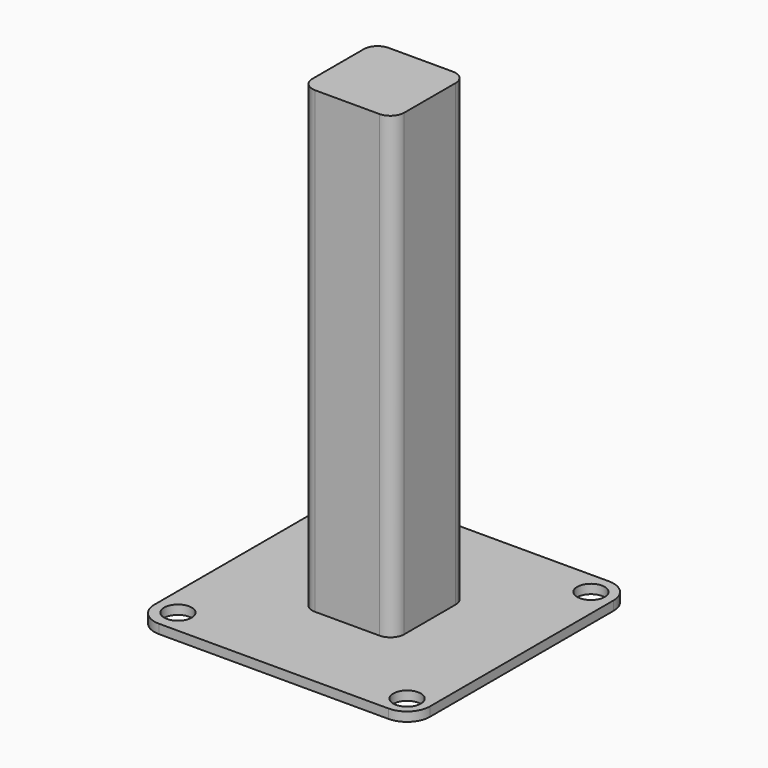
from build123d import *

# Parameters (mm, degrees)
SKETCH004_W  = 20
SKETCH004_H  = 20
PAD002_DEPTH = 100
FILLET010_R  = 3
FILLET011_R  = 3
SKETCH003_W  = 60
SKETCH003_H  = 60
PAD003_DEPTH = 2
FILLET013_R  = 5
FILLET009_R  = 5
FILLET008_R  = 5
FILLET012_R  = 5
SKETCH002_R  = 3
HOLE_DEPTH   = 25
HOLE_TIPS_R  = 3


with BuildPart() as part:
    # Sketch004 → Pad002 (new body)
    with BuildSketch(Plane.XY):
        with Locations((10, -10)):
            Rectangle(SKETCH004_W, SKETCH004_H)
    extrude(amount=PAD002_DEPTH)

    # Fillet010
    fillet010_edges = [part.edges().sort_by_distance(p)[0] for p in [
        (0, -20, 50),
        (20, 0, 50),
        (0, 0, 50),
    ]]
    fillet(fillet010_edges, radius=FILLET010_R)

    # Fillet011
    fillet011_edges = [part.edges().sort_by_distance(p)[0] for p in [
        (20, -20, 50),
    ]]
    fillet(fillet011_edges, radius=FILLET011_R)

    # Sketch003 (on Face1 of Fillet011) → Pad003 (join)
    with BuildSketch(Plane(origin=(0, 0, 0), x_dir=(1, 0, 0), z_dir=(0, 0, -1))):
        with Locations((10, 10)):
            Rectangle(SKETCH003_W, SKETCH003_H)
    extrude(amount=PAD003_DEPTH)

    # Fillet013
    fillet013_edges = [part.edges().sort_by_distance(p)[0] for p in [
        (-20, 20, -1),
    ]]
    fillet(fillet013_edges, radius=FILLET013_R)

    # Fillet009
    fillet009_edges = [part.edges().sort_by_distance(p)[0] for p in [
        (40, 20, -1),
    ]]
    fillet(fillet009_edges, radius=FILLET009_R)

    # Fillet008
    fillet008_edges = [part.edges().sort_by_distance(p)[0] for p in [
        (-20, -40, -1),
    ]]
    fillet(fillet008_edges, radius=FILLET008_R)

    # Fillet012
    fillet012_edges = [part.edges().sort_by_distance(p)[0] for p in [
        (40, -40, -1),
    ]]
    fillet(fillet012_edges, radius=FILLET012_R)

    # Sketch002 (on Face18 of Fillet012) → Hole (cut)
    with BuildSketch(Plane(origin=(0, 0, -2), x_dir=(1, 0, 0), z_dir=(0, 0, -1))):
        with Locations((-14.665156, -15.297529)):
            Circle(SKETCH002_R)
        with Locations((35.039818, -15.044578)):
            Circle(SKETCH002_R)
        with Locations((35.166283, 35.166294)):
            Circle(SKETCH002_R)
        with Locations((-15.044579, 34.786861)):
            Circle(SKETCH002_R)
    extrude(amount=-HOLE_DEPTH, mode=Mode.SUBTRACT)

    # Hole tips → Hole tip 1 section 0
    with BuildSketch(Plane(origin=(0, 0, 23), x_dir=(1, 0, 0), z_dir=(0, 0, -1)), mode=Mode.PRIVATE) as hole_tip_1_s0:
        with Locations((-14.665156, -15.297529)):
            Circle(HOLE_TIPS_R)
    loft([hole_tip_1_s0.sketch, Vertex(-14.665156, 15.297529, 24.802582)], mode=Mode.SUBTRACT)

    # Hole tips → Hole tip 2 section 0
    with BuildSketch(Plane(origin=(0, 0, 23), x_dir=(1, 0, 0), z_dir=(0, 0, -1)), mode=Mode.PRIVATE) as hole_tip_2_s0:
        with Locations((35.039818, -15.044578)):
            Circle(HOLE_TIPS_R)
    loft([hole_tip_2_s0.sketch, Vertex(35.039818, 15.044578, 24.802582)], mode=Mode.SUBTRACT)

    # Hole tips → Hole tip 3 section 0
    with BuildSketch(Plane(origin=(0, 0, 23), x_dir=(1, 0, 0), z_dir=(0, 0, -1)), mode=Mode.PRIVATE) as hole_tip_3_s0:
        with Locations((35.166283, 35.166294)):
            Circle(HOLE_TIPS_R)
    loft([hole_tip_3_s0.sketch, Vertex(35.166283, -35.166294, 24.802582)], mode=Mode.SUBTRACT)

    # Hole tips → Hole tip 4 section 0
    with BuildSketch(Plane(origin=(0, 0, 23), x_dir=(1, 0, 0), z_dir=(0, 0, -1)), mode=Mode.PRIVATE) as hole_tip_4_s0:
        with Locations((-15.044579, 34.786861)):
            Circle(HOLE_TIPS_R)
    loft([hole_tip_4_s0.sketch, Vertex(-15.044579, -34.786861, 24.802582)], mode=Mode.SUBTRACT)


with BuildPart() as part_1:
    # Body002 placement: moved
    add(part.part.moved(Location((103, 85, -116))))


solid = part_1.part
